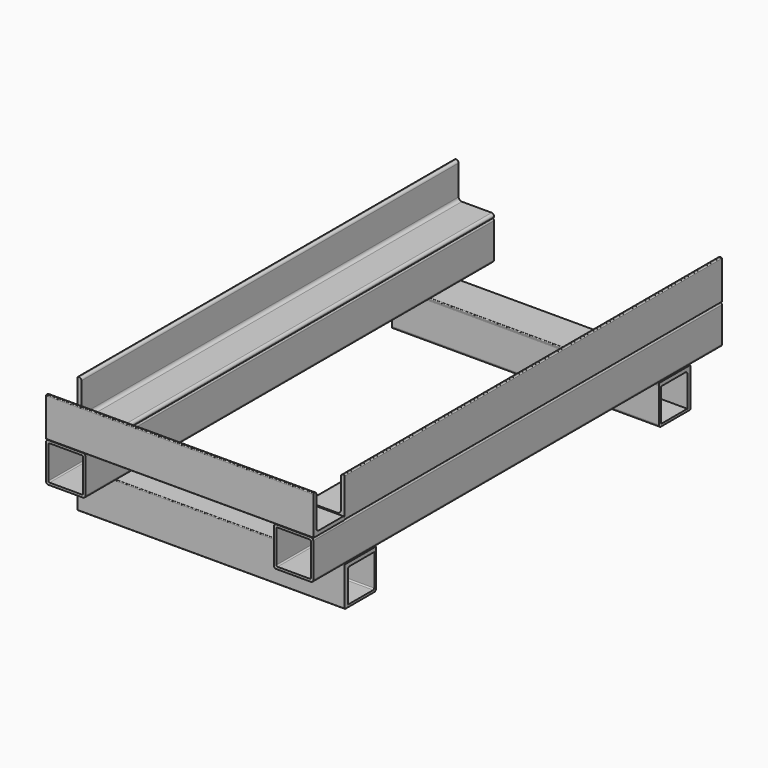
from build123d import *

# Parameters (mm, degrees)
F2_DEPTH  = 650
F5_DEPTH  = 600
F8_DEPTH  = 340
F10_DEPTH = 340
F12_DEPTH = 340


with BuildPart() as f2:
    # F1 (on offset) → F2 (new body)
    with BuildSketch(Plane.XZ.offset(300)):
        with BuildLine():
            Line((-123, 250), (-167, 250))
            ThreePointArc((-167, 250), (-169.12132, 249.12132), (-170, 247))
            Line((-170, 247), (-170, 203))
            ThreePointArc((-170, 203), (-169.12132, 200.87868), (-167, 200))
            Line((-167, 200), (-123, 200))
            ThreePointArc((-123, 200), (-120.87868, 200.87868), (-120, 203))
            Line((-120, 203), (-120, 247))
            ThreePointArc((-120, 247), (-120.87868, 249.12132), (-123, 250))
        make_face()
        with BuildLine():
            Line((-124.5, 203), (-165.5, 203))
            ThreePointArc((-165.5, 203), (-166.56066, 203.43934), (-167, 204.5))
            Line((-167, 204.5), (-167, 245.5))
            ThreePointArc((-167, 245.5), (-166.56066, 246.56066), (-165.5, 247))
            Line((-165.5, 247), (-124.5, 247))
            ThreePointArc((-124.5, 247), (-123.43934, 246.56066), (-123, 245.5))
            Line((-123, 245.5), (-123, 204.5))
            ThreePointArc((-123, 204.5), (-123.43934, 203.43934), (-124.5, 203))
        make_face(mode=Mode.SUBTRACT)
        with BuildLine():
            Line((167, 250), (123, 250))
            ThreePointArc((123, 250), (120.87868, 249.12132), (120, 247))
            Line((120, 247), (120, 203))
            ThreePointArc((120, 203), (120.87868, 200.87868), (123, 200))
            Line((123, 200), (167, 200))
            ThreePointArc((167, 200), (169.12132, 200.87868), (170, 203))
            Line((170, 203), (170, 247))
            ThreePointArc((170, 247), (169.12132, 249.12132), (167, 250))
        make_face()
        with BuildLine():
            Line((165.5, 203), (124.5, 203))
            ThreePointArc((124.5, 203), (123.43934, 203.43934), (123, 204.5))
            Line((123, 204.5), (123, 245.5))
            ThreePointArc((123, 245.5), (123.43934, 246.56066), (124.5, 247))
            Line((124.5, 247), (165.5, 247))
            ThreePointArc((165.5, 247), (166.56066, 246.56066), (167, 245.5))
            Line((167, 245.5), (167, 204.5))
            ThreePointArc((167, 204.5), (166.56066, 203.43934), (165.5, 203))
        make_face(mode=Mode.SUBTRACT)
    extrude(amount=-F2_DEPTH)


with BuildPart() as f5:
    # F4 (on offset) → F5 (new body)
    with BuildSketch(Plane.XZ.offset(250)):
        with BuildLine():
            Line((-168, 300), (-169, 300))
            ThreePointArc((-169, 300), (-169.707107, 299.707107), (-170, 299))
            Line((-170, 299), (-170, 251))
            ThreePointArc((-170, 251), (-169.707107, 250.292893), (-169, 250))
            Line((-169, 250), (-121, 250))
            ThreePointArc((-121, 250), (-120.292893, 250.292893), (-120, 251))
            Line((-120, 251), (-120, 252))
            ThreePointArc((-120, 252), (-120.87868, 254.12132), (-123, 255))
            Line((-123, 255), (-161, 255))
            ThreePointArc((-161, 255), (-163.828427, 256.171573), (-165, 259))
            Line((-165, 259), (-165, 297))
            ThreePointArc((-165, 297), (-165.87868, 299.12132), (-168, 300))
        make_face()
        with BuildLine():
            ThreePointArc((169, 250), (169.707107, 250.292893), (170, 251))
            Line((170, 251), (170, 299))
            ThreePointArc((170, 299), (169.707107, 299.707107), (169, 300))
            Line((169, 300), (168, 300))
            ThreePointArc((168, 300), (165.87868, 299.12132), (165, 297))
            Line((165, 297), (165, 259))
            ThreePointArc((165, 259), (163.828427, 256.171573), (161, 255))
            Line((161, 255), (123, 255))
            ThreePointArc((123, 255), (120.87868, 254.12132), (120, 252))
            Line((120, 252), (120, 251))
            ThreePointArc((120, 251), (120.292893, 250.292893), (121, 250))
            Line((121, 250), (169, 250))
        make_face()
    extrude(amount=-F5_DEPTH)


with BuildPart() as f8:
    # F7 (on offset) → F8 (new body)
    with BuildSketch(Plane.YZ.offset(170)):
        with BuildLine():
            ThreePointArc((-299, 300), (-299.707107, 299.707107), (-300, 299))
            Line((-300, 299), (-300, 251))
            ThreePointArc((-300, 251), (-299.707107, 250.292893), (-299, 250))
            Line((-299, 250), (-251, 250))
            ThreePointArc((-251, 250), (-250.292893, 250.292893), (-250, 251))
            Line((-250, 251), (-250, 252))
            ThreePointArc((-250, 252), (-250.87868, 254.12132), (-253, 255))
            Line((-253, 255), (-291, 255))
            ThreePointArc((-291, 255), (-293.828427, 256.171573), (-295, 259))
            Line((-295, 259), (-295, 297))
            ThreePointArc((-295, 297), (-295.87868, 299.12132), (-298, 300))
            Line((-298, 300), (-299, 300))
        make_face()
    extrude(amount=-F8_DEPTH)


with BuildPart() as f10:
    # F9 (on offset) → F10 (new body)
    with BuildSketch(Plane.YZ.offset(170)):
        with BuildLine():
            Line((-203, 200), (-247, 200))
            ThreePointArc((-247, 200), (-249.12132, 199.12132), (-250, 197))
            Line((-250, 197), (-250, 153))
            ThreePointArc((-250, 153), (-249.12132, 150.87868), (-247, 150))
            Line((-247, 150), (-203, 150))
            ThreePointArc((-203, 150), (-200.87868, 150.87868), (-200, 153))
            Line((-200, 153), (-200, 197))
            ThreePointArc((-200, 197), (-200.87868, 199.12132), (-203, 200))
        make_face()
        with BuildLine():
            ThreePointArc((-204.5, 197), (-203.43934, 196.56066), (-203, 195.5))
            Line((-203, 195.5), (-203, 154.5))
            ThreePointArc((-203, 154.5), (-203.43934, 153.43934), (-204.5, 153))
            Line((-204.5, 153), (-245.5, 153))
            ThreePointArc((-245.5, 153), (-246.56066, 153.43934), (-247, 154.5))
            Line((-247, 154.5), (-247, 195.5))
            ThreePointArc((-247, 195.5), (-246.56066, 196.56066), (-245.5, 197))
            Line((-245.5, 197), (-204.5, 197))
        make_face(mode=Mode.SUBTRACT)
        with BuildLine():
            Line((297, 200), (253, 200))
            ThreePointArc((253, 200), (250.87868, 199.12132), (250, 197))
            Line((250, 197), (250, 153))
            ThreePointArc((250, 153), (250.87868, 150.87868), (253, 150))
            Line((253, 150), (297, 150))
            ThreePointArc((297, 150), (299.12132, 150.87868), (300, 153))
            Line((300, 153), (300, 197))
            ThreePointArc((300, 197), (299.12132, 199.12132), (297, 200))
        make_face()
        with BuildLine():
            ThreePointArc((253, 195.5), (253.43934, 196.56066), (254.5, 197))
            Line((254.5, 197), (295.5, 197))
            ThreePointArc((295.5, 197), (296.56066, 196.56066), (297, 195.5))
            Line((297, 195.5), (297, 154.5))
            ThreePointArc((297, 154.5), (296.56066, 153.43934), (295.5, 153))
            Line((295.5, 153), (254.5, 153))
            ThreePointArc((254.5, 153), (253.43934, 153.43934), (253, 154.5))
            Line((253, 154.5), (253, 195.5))
        make_face(mode=Mode.SUBTRACT)
    extrude(amount=-F10_DEPTH)


with BuildPart() as f12:
    # F11 (on offset) → F12 (new body)
    with BuildSketch(Plane.YZ.offset(170)):
        with BuildLine():
            Line((-200, 198), (-200, 199))
            ThreePointArc((-200, 199), (-200.292893, 199.707107), (-201, 200))
            Line((-201, 200), (-249, 200))
            ThreePointArc((-249, 200), (-249.707107, 199.707107), (-250, 199))
            Line((-250, 199), (-250, 151))
            ThreePointArc((-250, 151), (-249.707107, 150.292893), (-249, 150))
            Line((-249, 150), (-248, 150))
            ThreePointArc((-248, 150), (-245.87868, 150.87868), (-245, 153))
            Line((-245, 153), (-245, 192))
            ThreePointArc((-245, 192), (-244.12132, 194.12132), (-242, 195))
            Line((-242, 195), (-203, 195))
            ThreePointArc((-203, 195), (-200.87868, 195.87868), (-200, 198))
        make_face()
        with BuildLine():
            ThreePointArc((251, 200), (250.292893, 199.707107), (250, 199))
            Line((250, 199), (250, 198))
            ThreePointArc((250, 198), (250.87868, 195.87868), (253, 195))
            Line((253, 195), (292, 195))
            ThreePointArc((292, 195), (294.12132, 194.12132), (295, 192))
            Line((295, 192), (295, 153))
            ThreePointArc((295, 153), (295.87868, 150.87868), (298, 150))
            Line((298, 150), (299, 150))
            ThreePointArc((299, 150), (299.707107, 150.292893), (300, 151))
            Line((300, 151), (300, 199))
            ThreePointArc((300, 199), (299.707107, 199.707107), (299, 200))
            Line((299, 200), (251, 200))
        make_face()
    extrude(amount=-F12_DEPTH)


solid = Compound([f2.part, f5.part, f8.part, f10.part, f12.part])
